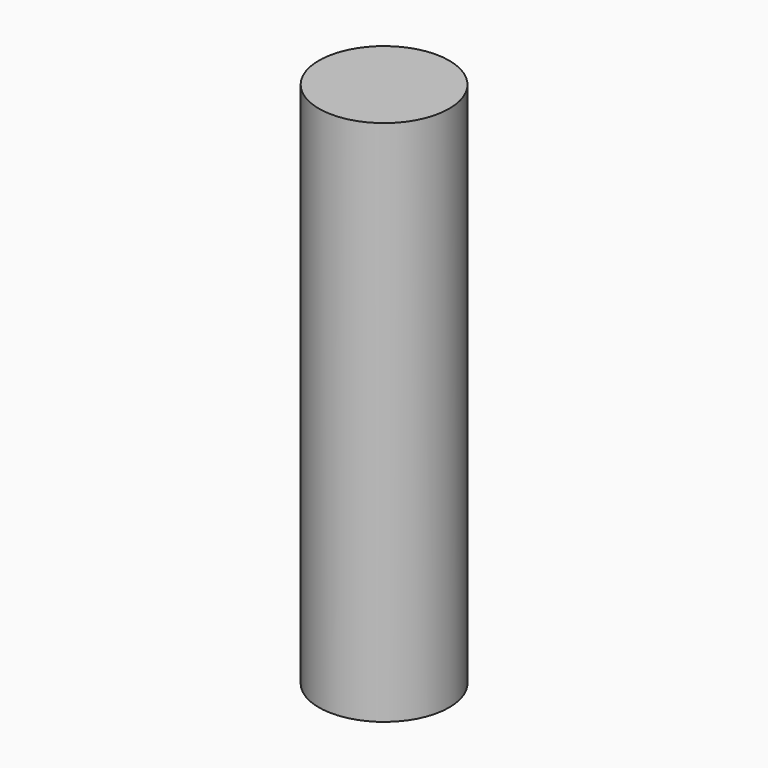
from build123d import *

# Parameters (mm, degrees)
CYLINDER_R     = 1.8542
CYLINDER_DEPTH = 15


with BuildPart() as part:
    # Cylinder → Cylinder (new body)
    with BuildSketch(Plane.XY.offset(-2.5)):
        Circle(CYLINDER_R)
    extrude(amount=CYLINDER_DEPTH)


solid = part.part
